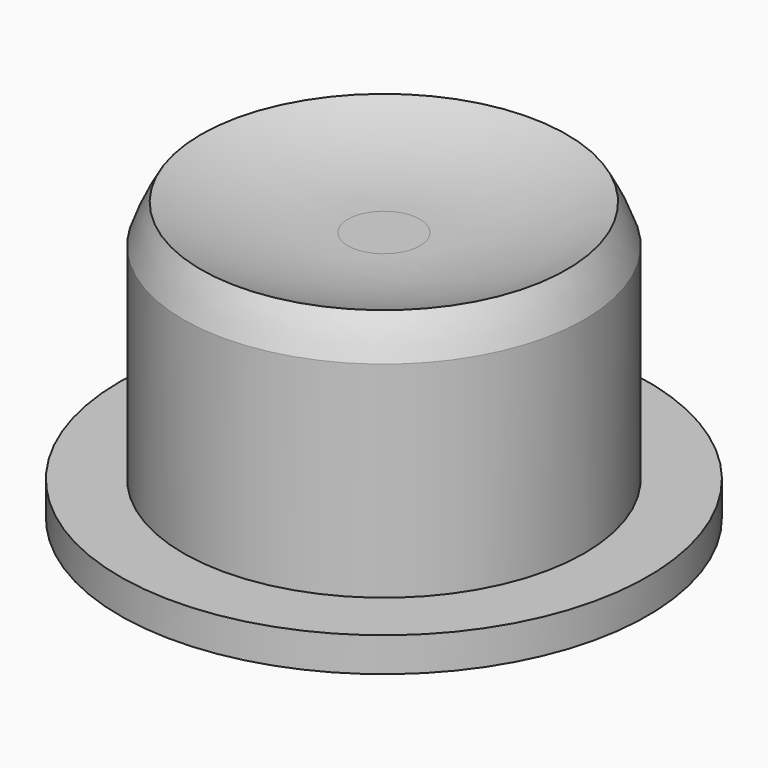
from build123d import *


with BuildPart() as part:
    # Sketch → Revolution (revolve)
    with BuildSketch(Plane.XZ):
        with BuildLine():
            Line((0, 0), (-15.4, 0))
            Line((-15.4, 0), (-15.4, 2))
            Line((-15.4, 2), (-11.7, 2))
            Line((-11.7, 2), (-11.7, 14))
            ThreePointArc((-10.672007, 16.233973), (-11.24192, 15.142717), (-11.7, 14))
            ThreePointArc((-10.672007, 16.233973), (-6.459239, 15.049676), (-2.099769, 14.6689))
            Line((-2.099769, 14.6689), (0, 14.6689))
            Line((0, 14.6689), (0, 14))
            Line((0, 14), (0, 0))
        make_face()
    revolve(axis=Axis((0, 0, 0), (0, 0, 1)))


solid = part.part
